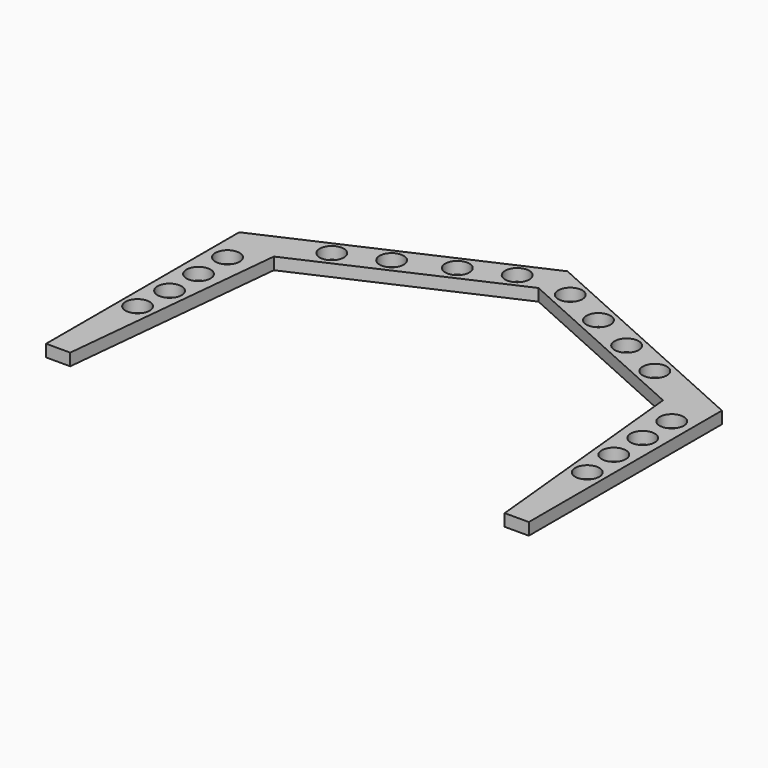
from build123d import *

# Parameters (mm, degrees)
F0_R     = 5
F1_DEPTH = 5


with BuildPart() as f1:
    # F0 (on Top) → F1 (new body)
    with BuildSketch(Plane.XY):
        Polygon((80.628272, 93.717277), (90, 0), (100, 0), (100, 100), (80, 100), align=None)
        with Locations((93, 39)):
            Circle(F0_R, mode=Mode.SUBTRACT)
        with Locations((92, 54)):
            Circle(F0_R, mode=Mode.SUBTRACT)
        with Locations((92, 69)):
            Circle(F0_R, mode=Mode.SUBTRACT)
        with Locations((92, 84)):
            Circle(F0_R, mode=Mode.SUBTRACT)
        Polygon((-100, 0), (-90, 0), (-80.61579, 93.717277), (-80.000474, 99.86225), (-100, 100), align=None)
        with Locations((-93.288932, 39)):
            Circle(F0_R, mode=Mode.SUBTRACT)
        with Locations((-92, 53.944519)):
            Circle(F0_R, mode=Mode.SUBTRACT)
        with Locations((-92, 68.944519)):
            Circle(F0_R, mode=Mode.SUBTRACT)
        with Locations((-92, 83.944519)):
            Circle(F0_R, mode=Mode.SUBTRACT)
        Polygon((0, 145), (0, 130), (80.628272, 93.717277), (80, 100), (100, 100), align=None)
        with Locations((65.71529, 108.104219)):
            Circle(F0_R, mode=Mode.SUBTRACT)
        with Locations((47.47686, 116.311512)):
            Circle(F0_R, mode=Mode.SUBTRACT)
        with Locations((29.23843, 124.518806)):
            Circle(F0_R, mode=Mode.SUBTRACT)
        with Locations((11, 132.726099)):
            Circle(F0_R, mode=Mode.SUBTRACT)
        Polygon((-80.61579, 93.717277), (0, 130), (0, 145), (-100, 100), (-80.000474, 99.86225), align=None)
        with Locations((-67.475909, 107.307439)):
            Circle(F0_R, mode=Mode.SUBTRACT)
        with Locations((-49.237955, 115.515789)):
            Circle(F0_R, mode=Mode.SUBTRACT)
        with Locations((-29.237955, 124.517183)):
            Circle(F0_R, mode=Mode.SUBTRACT)
        with Locations((-11, 132.725533)):
            Circle(F0_R, mode=Mode.SUBTRACT)
    extrude(amount=F1_DEPTH)


solid = f1.part
